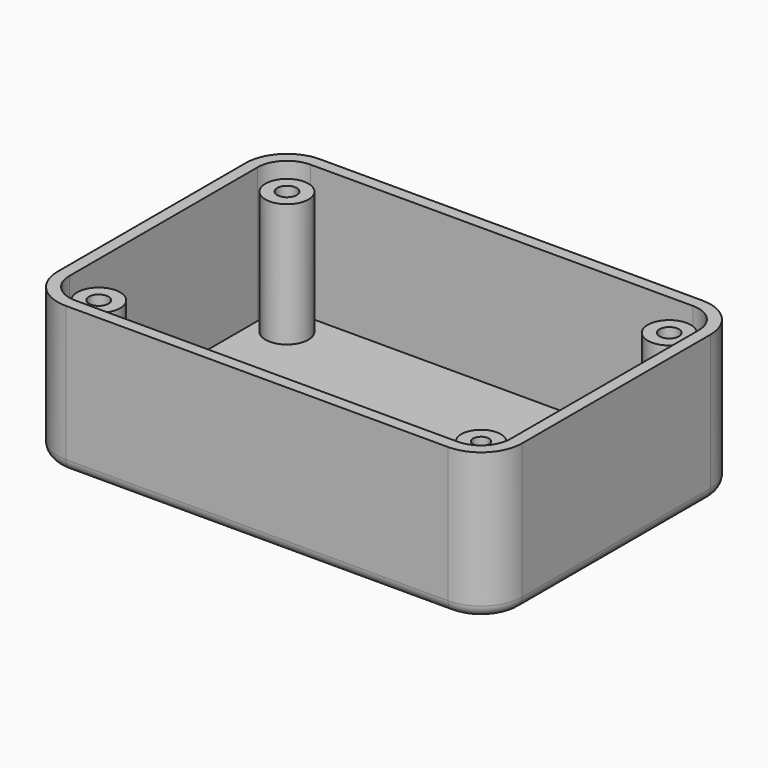
from build123d import *

# Parameters (mm, degrees)
F1_R     = 3.6500000581
F1_R_2   = 3.3500010893
F1_R_3   = 3.649998717
F1_R_4   = 1.65
F1_R_5   = 1.35
F2_DEPTH = 2
F3_DEPTH = 25
F4_DEPTH = 23
F5_R     = 2


with BuildPart() as f2:
    # F1 (on Top) → F2 (new body)
    with BuildSketch(Plane.XY):
        with BuildLine():
            Line((42.8394566104, 17.9592743516), (-22.1605433896, 17.9592743516))
            ThreePointArc((-22.1605433896, 17.9592743516), (-27.1102905971, 15.909021928), (-29.1605430207, 10.9592747205))
            Line((-29.1605430207, 10.9592747205), (-29.1605430207, -29.0407252795))
            ThreePointArc((-29.1605430207, -29.0407252795), (-27.1102905971, -33.9904724869), (-22.1605433896, -36.0407249106))
            Line((-22.1605433896, -36.0407249106), (42.8394566104, -36.0407249106))
            ThreePointArc((42.8394566104, -36.0407249106), (47.7892038178, -33.9904724869), (49.8394562415, -29.0407252795))
            Line((49.8394562415, -29.0407252795), (49.8394562415, 10.9592747205))
            ThreePointArc((49.8394562415, 10.9592747205), (47.7892038178, 15.909021928), (42.8394566104, 17.9592743516))
        make_face()
        with BuildLine():
            ThreePointArc((-27.1605433896, 10.9592747205), (-25.6960772956, 14.4948086265), (-22.1605433896, 15.9592747205))
            Line((-22.1605433896, 15.9592747205), (42.8394566104, 15.9592747205))
            ThreePointArc((42.8394566104, 15.9592747205), (46.3749905163, 14.4948086265), (47.8394566104, 10.9592747205))
            Line((47.8394566104, 10.9592747205), (47.8394566104, -29.0407252795))
            ThreePointArc((47.8394566104, -29.0407252795), (46.3749905163, -32.5762591854), (42.8394566104, -34.0407252795))
            Line((42.8394566104, -34.0407252795), (-22.1605433896, -34.0407252795))
            ThreePointArc((-22.1605433896, -34.0407252795), (-25.6960772956, -32.5762591854), (-27.1605433896, -29.0407252795))
            Line((-27.1605433896, -29.0407252795), (-27.1605433896, 10.9592747205))
        make_face(mode=Mode.SUBTRACT)
        with BuildLine():
            Line((42.8394566104, 15.9592747205), (-22.1605433896, 15.9592747205))
            ThreePointArc((-22.1605433896, 15.9592747205), (-25.6960772956, 14.4948086265), (-27.1605433896, 10.9592747205))
            Line((-27.1605433896, 10.9592747205), (-27.1605433896, -29.0407252795))
            ThreePointArc((-27.1605433896, -29.0407252795), (-25.6960772956, -32.5762591854), (-22.1605433896, -34.0407252795))
            Line((-22.1605433896, -34.0407252795), (42.8394566104, -34.0407252795))
            ThreePointArc((42.8394566104, -34.0407252795), (46.3749905163, -32.5762591854), (47.8394566104, -29.0407252795))
            Line((47.8394566104, -29.0407252795), (47.8394566104, 10.9592747205))
            ThreePointArc((47.8394566104, 10.9592747205), (46.3749905163, 14.4948086265), (42.8394566104, 15.9592747205))
        make_face()
        with Locations((-22.1605433896, -29.0407252795)):
            Circle(F1_R, mode=Mode.SUBTRACT)
        with Locations((42.8394566104, -29.0407252795)):
            Circle(F1_R_2, mode=Mode.SUBTRACT)
        with Locations((-22.1605433896, 10.9592747205)):
            Circle(F1_R, mode=Mode.SUBTRACT)
        with Locations((42.8394566104, 10.9592747205)):
            Circle(F1_R_3, mode=Mode.SUBTRACT)
        with Locations((-22.1605433896, 10.9592747205)):
            Circle(F1_R)
        with Locations((-22.1605433896, 10.9592747205)):
            Circle(F1_R_4, mode=Mode.SUBTRACT)
        with Locations((-22.1605433896, -29.0407252795)):
            Circle(F1_R)
        with Locations((-22.1605433896, -29.0407252795)):
            Circle(F1_R_4, mode=Mode.SUBTRACT)
        with Locations((42.8394566104, 10.9592747205)):
            Circle(F1_R_3)
        with Locations((42.8394566104, 10.9592747205)):
            Circle(F1_R_4, mode=Mode.SUBTRACT)
        with Locations((42.8394566104, -29.0407252795)):
            Circle(F1_R_2)
        with Locations((42.8394566104, -29.0407252795)):
            Circle(F1_R_5, mode=Mode.SUBTRACT)
        with Locations((42.8394566104, 10.9592747205)):
            Circle(F1_R_4)
        with Locations((-22.1605433896, 10.9592747205)):
            Circle(F1_R_4)
        with Locations((-22.1605433896, -29.0407252795)):
            Circle(F1_R_4)
        with Locations((42.8394566104, -29.0407252795)):
            Circle(F1_R_5)
    extrude(amount=F2_DEPTH)

    # F1 (on Top) → F3 (join)
    with BuildSketch(Plane.XY):
        with BuildLine():
            Line((42.8394566104, 17.9592743516), (-22.1605433896, 17.9592743516))
            ThreePointArc((-22.1605433896, 17.9592743516), (-27.1102905971, 15.909021928), (-29.1605430207, 10.9592747205))
            Line((-29.1605430207, 10.9592747205), (-29.1605430207, -29.0407252795))
            ThreePointArc((-29.1605430207, -29.0407252795), (-27.1102905971, -33.9904724869), (-22.1605433896, -36.0407249106))
            Line((-22.1605433896, -36.0407249106), (42.8394566104, -36.0407249106))
            ThreePointArc((42.8394566104, -36.0407249106), (47.7892038178, -33.9904724869), (49.8394562415, -29.0407252795))
            Line((49.8394562415, -29.0407252795), (49.8394562415, 10.9592747205))
            ThreePointArc((49.8394562415, 10.9592747205), (47.7892038178, 15.909021928), (42.8394566104, 17.9592743516))
        make_face()
        with BuildLine():
            ThreePointArc((-27.1605433896, 10.9592747205), (-25.6960772956, 14.4948086265), (-22.1605433896, 15.9592747205))
            Line((-22.1605433896, 15.9592747205), (42.8394566104, 15.9592747205))
            ThreePointArc((42.8394566104, 15.9592747205), (46.3749905163, 14.4948086265), (47.8394566104, 10.9592747205))
            Line((47.8394566104, 10.9592747205), (47.8394566104, -29.0407252795))
            ThreePointArc((47.8394566104, -29.0407252795), (46.3749905163, -32.5762591854), (42.8394566104, -34.0407252795))
            Line((42.8394566104, -34.0407252795), (-22.1605433896, -34.0407252795))
            ThreePointArc((-22.1605433896, -34.0407252795), (-25.6960772956, -32.5762591854), (-27.1605433896, -29.0407252795))
            Line((-27.1605433896, -29.0407252795), (-27.1605433896, 10.9592747205))
        make_face(mode=Mode.SUBTRACT)
    extrude(amount=F3_DEPTH)

    # F1 (on Top) → F4 (join)
    with BuildSketch(Plane.XY):
        with Locations((42.8394566104, 10.9592747205)):
            Circle(F1_R_3)
        with Locations((42.8394566104, 10.9592747205)):
            Circle(F1_R_4, mode=Mode.SUBTRACT)
        with Locations((42.8394566104, -29.0407252795)):
            Circle(F1_R_2)
        with Locations((42.8394566104, -29.0407252795)):
            Circle(F1_R_5, mode=Mode.SUBTRACT)
        with Locations((-22.1605433896, 10.9592747205)):
            Circle(F1_R)
        with Locations((-22.1605433896, 10.9592747205)):
            Circle(F1_R_4, mode=Mode.SUBTRACT)
        with Locations((-22.1605433896, -29.0407252795)):
            Circle(F1_R)
        with Locations((-22.1605433896, -29.0407252795)):
            Circle(F1_R_4, mode=Mode.SUBTRACT)
    extrude(amount=F4_DEPTH)

    # F5
    f5_edges = [f2.edges().sort_by_distance(p)[0] for p in [
        (10.339457, -36.040725, 0),
    ]]
    fillet(f5_edges, radius=F5_R)


solid = f2.part
